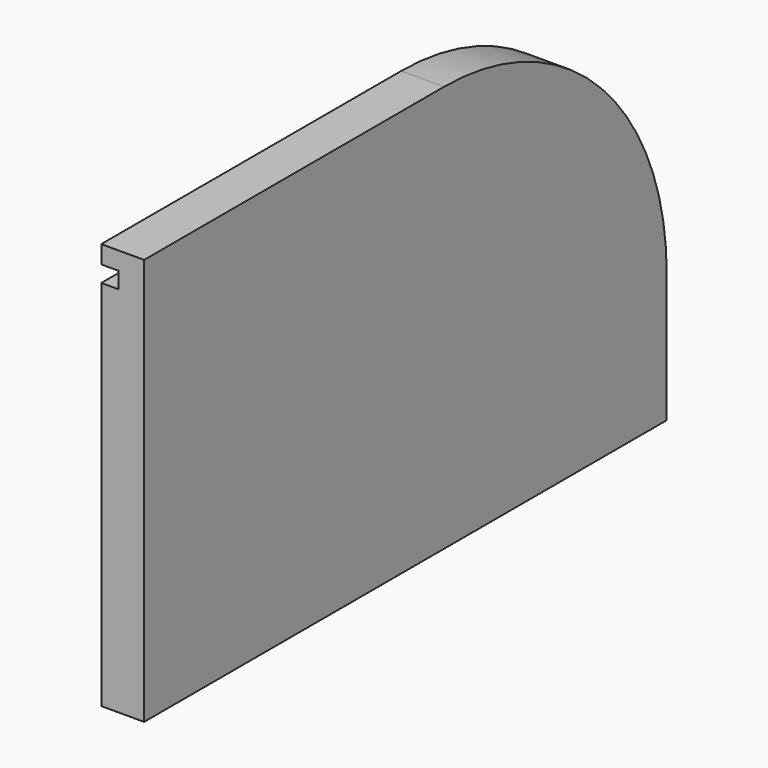
from build123d import *

# Parameters (mm, degrees)
F1_DEPTH = 20
F3_DEPTH = 8


with BuildPart() as f1:
    # F0 (on Right) → F1 (new body)
    with BuildSketch(Plane.YZ):
        with BuildLine():
            Line((0, 76.777947), (-175, 76.777947))
            Line((-175, 76.777947), (-175, -113.118447))
            Line((-175, -113.118447), (129.999959, -113.118447))
            Line((129.999959, -113.118447), (129.999959, -53.118447))
            ThreePointArc((129.999959, -53.118447), (91.887244, 38.738451), (0, 76.777947))
        make_face()
    extrude(amount=F1_DEPTH)

    # F2 (on face) → F3 (cut)
    with BuildSketch(Plane(origin=(0, 0, 0), x_dir=(0, -1, 0), z_dir=(-1, 0, 0))):
        with BuildLine():
            Line((175, 60.811221), (175, 68.414755))
            Line((175, 68.414755), (0, 68.414755))
            ThreePointArc((0, 68.414755), (-87.193236, 30.937351), (-119.999959, -58.118447))
            Line((-119.999959, -58.118447), (-119.999959, -113.118447))
            Line((-119.999959, -113.118447), (-111.999959, -113.118447))
            Line((-111.999959, -113.118447), (-111.999959, -58.118447))
            ThreePointArc((-111.999959, -58.118447), (-81.682704, 25.532649), (0, 60.811221))
            Line((0, 60.811221), (175, 60.811221))
        make_face()
    extrude(amount=-F3_DEPTH, mode=Mode.SUBTRACT)


solid = f1.part
